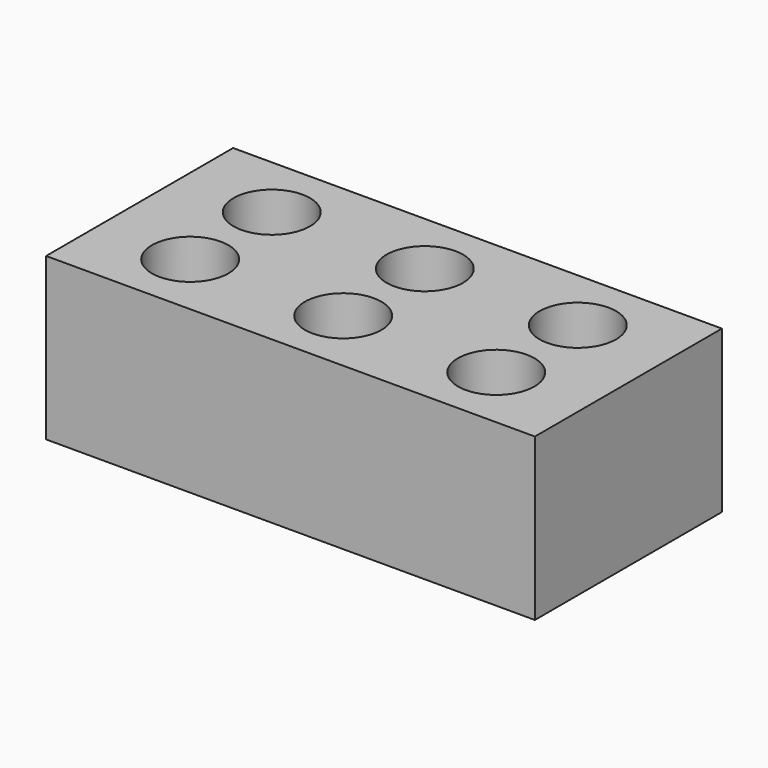
from build123d import *

# Parameters (mm, degrees)
CYLINDER001_R     = 18
CYLINDER001_DEPTH = 80
CYLINDER003_R     = 18
CYLINDER003_DEPTH = 80
CYLINDER002_R     = 18
CYLINDER002_DEPTH = 80
CYLINDER005_R     = 18
CYLINDER005_DEPTH = 80
CYLINDER004_R     = 18
CYLINDER004_DEPTH = 80
CYLINDER_R        = 18
CYLINDER_DEPTH    = 80
BOX_W             = 230
BOX_H             = 110
BOX_DEPTH         = 76


with BuildPart() as cylinder001:
    # Cylinder001 → Cylinder001 (new body)
    with BuildSketch(Plane(origin=(0, 48, -2), x_dir=(1, 0, 0), z_dir=(0, 0, 1))):
        Circle(CYLINDER001_R)
    extrude(amount=CYLINDER001_DEPTH)


with BuildPart() as cylinder003:
    # Cylinder003 → Cylinder003 (new body)
    with BuildSketch(Plane(origin=(72, 48, -2), x_dir=(1, 0, 0), z_dir=(0, 0, 1))):
        Circle(CYLINDER003_R)
    extrude(amount=CYLINDER003_DEPTH)


with BuildPart() as cylinder002:
    # Cylinder002 → Cylinder002 (new body)
    with BuildSketch(Plane(origin=(72, 0, -2), x_dir=(1, 0, 0), z_dir=(0, 0, 1))):
        Circle(CYLINDER002_R)
    extrude(amount=CYLINDER002_DEPTH)


with BuildPart() as cylinder005:
    # Cylinder005 → Cylinder005 (new body)
    with BuildSketch(Plane(origin=(144, 48, -2), x_dir=(1, 0, 0), z_dir=(0, 0, 1))):
        Circle(CYLINDER005_R)
    extrude(amount=CYLINDER005_DEPTH)


with BuildPart() as cylinder004:
    # Cylinder004 → Cylinder004 (new body)
    with BuildSketch(Plane(origin=(144, 0, -2), x_dir=(1, 0, 0), z_dir=(0, 0, 1))):
        Circle(CYLINDER004_R)
    extrude(amount=CYLINDER004_DEPTH)


with BuildPart() as fusion:
    # Cylinder → Cylinder (new body)
    with BuildSketch(Plane.XY.offset(-2)):
        Circle(CYLINDER_R)
    extrude(amount=CYLINDER_DEPTH)

    # Fusion: union Cylinder001, Cylinder003, Cylinder002, Cylinder005, Cylinder004
    add(cylinder001.part)
    add(cylinder003.part)
    add(cylinder002.part)
    add(cylinder005.part)
    add(cylinder004.part)


with BuildPart() as fusion_1:
    # Fusion placement: moved
    add(fusion.part.moved(Location((43, 31, 0))))


with BuildPart() as obj1:
    # Box → Box (new body)
    with BuildSketch(Plane.XY):
        with Locations((115, 55)):
            Rectangle(BOX_W, BOX_H)
    extrude(amount=BOX_DEPTH)

    # Cut: cut Fusion
    add(fusion_1.part, mode=Mode.SUBTRACT)


solid = obj1.part
